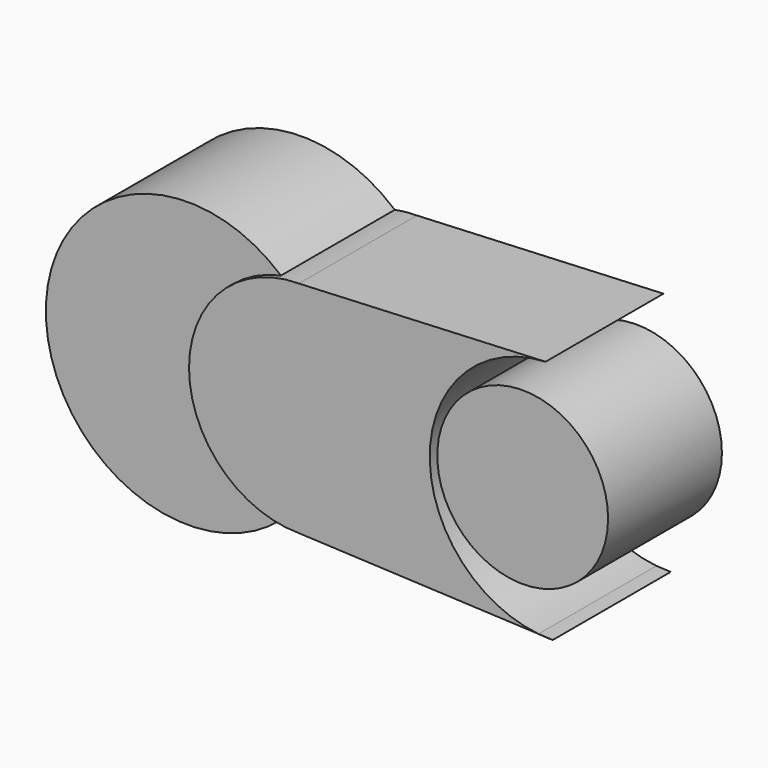
from build123d import *

# Parameters (mm, degrees)
F1_DEPTH = 65.786
F2_R     = 38.113147
F2_R_2   = 63.444763
F3_DEPTH = 63.5


with BuildPart() as f1:
    # F0 (on Front) → F1 (new body)
    with BuildSketch(Plane.XZ):
        with BuildLine():
            Line((113.310461, -54.146026), (106.890701, -53.856522))
            ThreePointArc((106.890701, -53.856522), (110.096283, -54.096589), (113.310461, -54.146026))
        make_face()
        with BuildLine():
            ThreePointArc((0, 49.0362), (34.67383, 34.67383), (49.0362, 0))
            ThreePointArc((49.0362, 0), (34.67383, -34.67383), (0, -49.0362))
            Line((0, -49.0362), (106.890701, -53.856522))
            ThreePointArc((106.890701, -53.856522), (58.407412, 1.583845), (110.049442, 54.094457))
            Line((110.049442, 54.094457), (0, 49.0362))
        make_face()
        with BuildLine():
            ThreePointArc((0, -49.0362), (34.67383, -34.67383), (49.0362, 0))
            ThreePointArc((49.0362, 0), (34.67383, 34.67383), (0, 49.0362))
            ThreePointArc((0, 49.0362), (-49.0362, 0), (0, -49.0362))
        make_face()
    extrude(amount=F1_DEPTH)

    # F2 (on Front) → F3 (join)
    with BuildSketch(Plane.XZ):
        with Locations((98.022446, 0)):
            Circle(F2_R)
        with Locations((-51.311396, 0)):
            Circle(F2_R_2)
    extrude(amount=F3_DEPTH)


solid = f1.part
